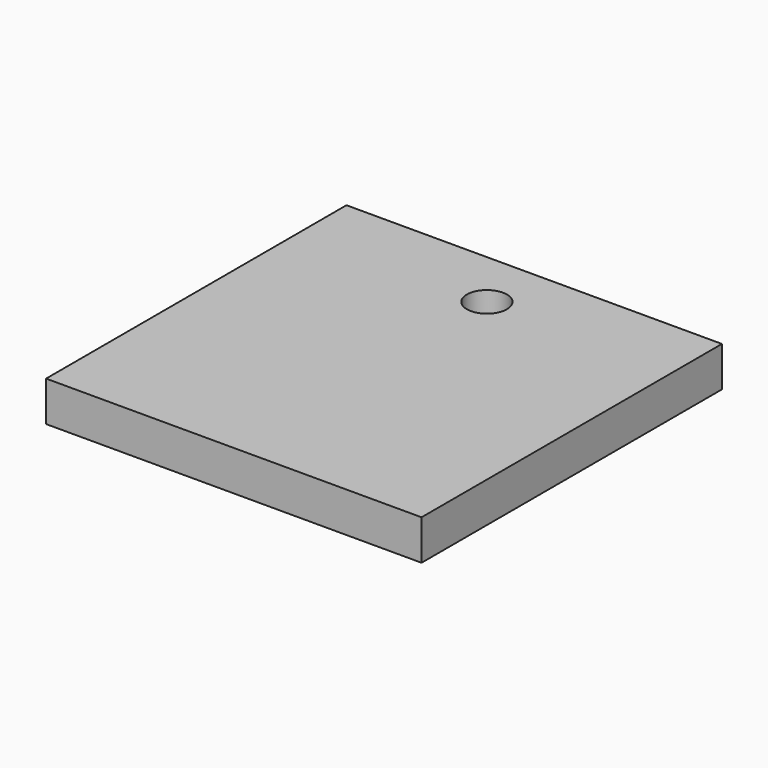
from build123d import *

# Parameters (mm, degrees)
F0_W     = 30
F0_H     = 30
F0_R     = 1.6
F1_DEPTH = 3.2
F2_DEPTH = 3.2


with BuildPart() as f1:
    # F0 (on Top) → F1 (new body)
    with BuildSketch(Plane.XY):
        Rectangle(F0_W, F0_H)
        with Locations((0, 10.276821)):
            Circle(F0_R, mode=Mode.SUBTRACT)
    extrude(amount=F1_DEPTH)

    # F0 (on Top) → F2 (join)
    with BuildSketch(Plane.XY):
        Rectangle(F0_W, F0_H)
        with Locations((0, 10.276821)):
            Circle(F0_R, mode=Mode.SUBTRACT)
    extrude(amount=F2_DEPTH)


solid = f1.part
